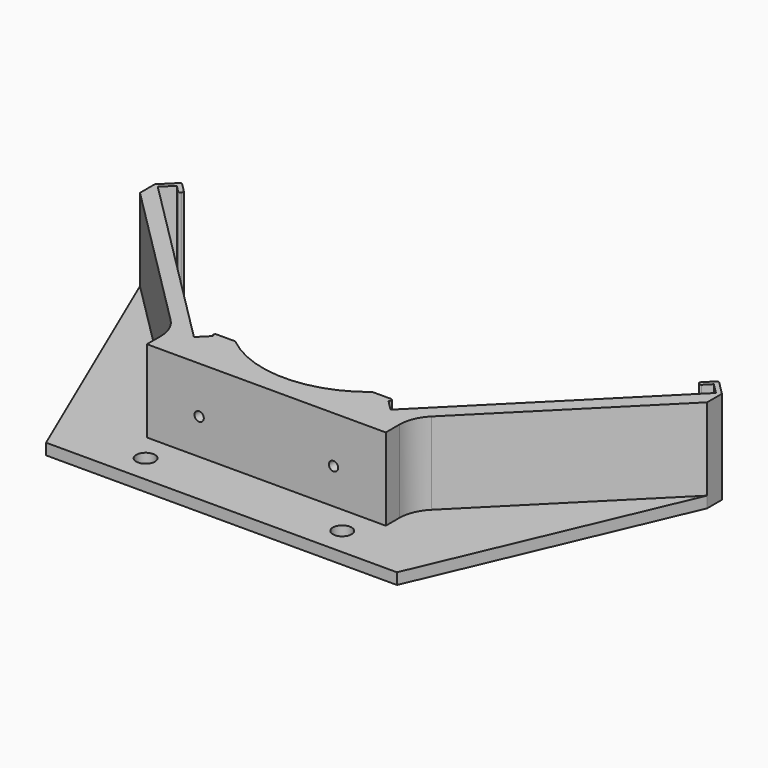
from build123d import *

# Parameters (mm, degrees)
F1_DEPTH = 12.5
F6_R     = 2.5
F7_DEPTH = 3


with BuildPart() as f1:
    # F0 (on Top) → F1 (new body, symmetric)
    with BuildSketch(Plane.XY):
        with BuildLine():
            Line((0, 0), (31.985281, 0))
            Line((31.985281, 0), (31.985281, 4.529437))
            ThreePointArc((31.985281, 4.529437), (32.746486, 8.356272), (34.914214, 11.600505))
            Line((34.914214, 11.600505), (75.942641, 52.628932))
            Line((75.942641, 52.628932), (75.942641, 57.582843))
            Line((75.942641, 57.582843), (72.267767, 61.257716))
            ThreePointArc((72.267767, 61.257716), (71.914214, 61.404163), (71.56066, 61.257716))
            Line((71.56066, 61.257716), (69.236437, 58.933493))
            ThreePointArc((69.236437, 58.933493), (69.08999, 58.57994), (69.236437, 58.226386))
            Line((69.236437, 58.226386), (69.377858, 58.084965))
            ThreePointArc((69.377858, 58.084965), (69.731411, 57.938518), (70.084965, 58.084965))
            Line((70.084965, 58.084965), (70.5, 58.5))
            Line((70.5, 58.5), (71.914214, 59.914214))
            Line((71.914214, 59.914214), (74.742641, 57.085786))
            Line((74.742641, 57.085786), (73.328427, 55.671573))
            Line((73.328427, 55.671573), (26.328427, 8.671573))
            Line((26.328427, 8.671573), (23.5, 11.5))
            Line((23.5, 11.5), (23.707107, 11.707107))
            ThreePointArc((23.707107, 11.707107), (23.815493, 12.252002), (23.353553, 12.56066))
            Line((23.353553, 12.56066), (18.370521, 12.56066))
            ThreePointArc((18.370521, 12.56066), (0, 6), (-18.370521, 12.56066))
            Line((-18.370521, 12.56066), (-23.353553, 12.56066))
            ThreePointArc((-23.353553, 12.56066), (-23.815493, 12.252002), (-23.707107, 11.707107))
            Line((-23.707107, 11.707107), (-23.5, 11.5))
            Line((-23.5, 11.5), (-26.328427, 8.671573))
            Line((-26.328427, 8.671573), (-73.328427, 55.671573))
            Line((-73.328427, 55.671573), (-74.742641, 57.085786))
            Line((-74.742641, 57.085786), (-71.914214, 59.914214))
            Line((-71.914214, 59.914214), (-70.5, 58.5))
            Line((-70.5, 58.5), (-70.084965, 58.084965))
            ThreePointArc((-70.084965, 58.084965), (-69.731411, 57.938518), (-69.377858, 58.084965))
            Line((-69.377858, 58.084965), (-69.236437, 58.226386))
            ThreePointArc((-69.236437, 58.226386), (-69.08999, 58.57994), (-69.236437, 58.933493))
            Line((-69.236437, 58.933493), (-71.56066, 61.257716))
            ThreePointArc((-71.56066, 61.257716), (-71.914214, 61.404163), (-72.267767, 61.257716))
            Line((-72.267767, 61.257716), (-75.942641, 57.582843))
            Line((-75.942641, 57.582843), (-75.942641, 52.628932))
            Line((-75.942641, 52.628932), (-34.914214, 11.600505))
            ThreePointArc((-34.914214, 11.600505), (-32.746486, 8.356272), (-31.985281, 4.529437))
            Line((-31.985281, 4.529437), (-31.985281, 0))
            Line((-31.985281, 0), (0, 0))
        make_face()
    extrude(amount=F1_DEPTH, both=True)


with BuildPart() as f3:
    # F2 (on Top) → F3 (revolve)
    with BuildSketch(Plane.XY):
        Polygon((-18, 19.219435), (-18, -4.799377), (-16.75, -4.799377), (-16.75, 7), (-14.75, 7), (-14.75, 19.219435), align=None)
    revolve(axis=Axis((-18, 7.210029, 0), (0, -1, 0)))


with BuildPart() as f4_1:
    # F4: instance of F3
    add(f3.part.mirror(Plane.YZ))


with BuildPart() as f1_1:
    add(f1.part)

    # F5: cut F3, F4_1
    add(f3.part, mode=Mode.SUBTRACT)
    add(f4_1.part, mode=Mode.SUBTRACT)

    # F6 (on face) → F7 (join)
    with BuildSketch(Plane(origin=(0, 0, -12.5), x_dir=(1, 0, 0), z_dir=(0, 0, -1))):
        Polygon((46.985281, 15), (0, 15), (0, 0), (23.313708, 0), (75.942641, -52.628932), align=None)
        with Locations((26.328427, 7.5)):
            Circle(F6_R, mode=Mode.SUBTRACT)
        Polygon((0, 0), (0, 15), (-46.985281, 15), (-75.942641, -52.628932), (-23.313708, 0), align=None)
        with Locations((-26.328427, 7.5)):
            Circle(F6_R, mode=Mode.SUBTRACT)
    extrude(amount=-F7_DEPTH)


solid = f1_1.part
